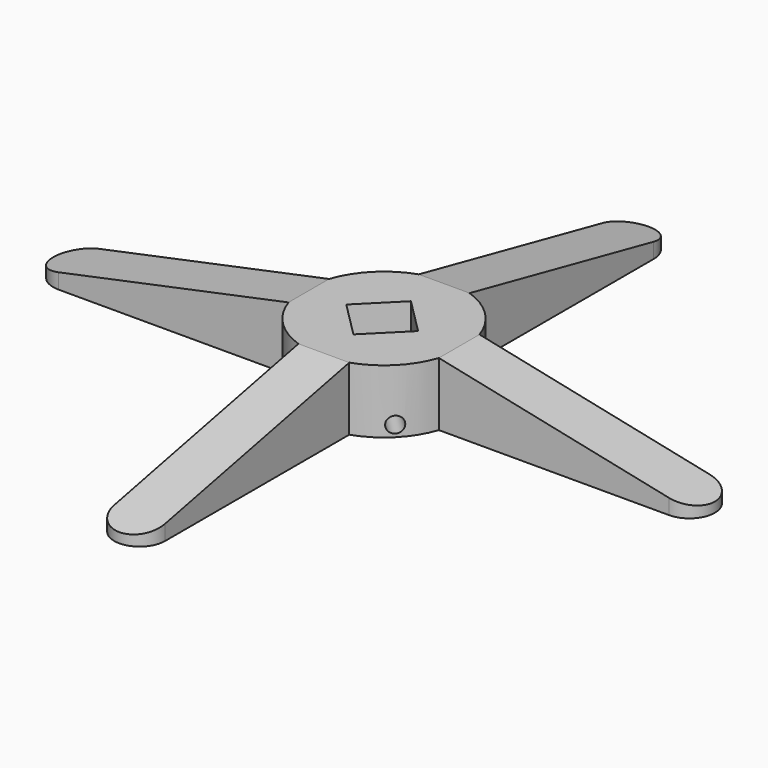
from build123d import *

# Parameters (mm, degrees)
F1_DEPTH       = 20
F3_DEPTH       = 16
F5_DEPTH       = 16
F7_DEPTH       = 16
F9_DEPTH       = 18
F10_R          = 2.5
F11_DEPTH      = 17.4049884739
F11_DEPTH_BACK = 16
F13_DEPTH      = 16


with BuildPart() as f1:
    # F0 (on Top) → F1 (new body)
    with BuildSketch(Plane.XY):
        with BuildLine():
            ThreePointArc((23.6854385647, -8), (24.6691706804, -4.0536425523), (25, 0))
            ThreePointArc((25, 0), (24.6691706804, 4.0536425523), (23.6854385647, 8))
            ThreePointArc((23.6854385647, 8), (17.6776695297, 17.6776695297), (8, 23.6854385647))
            ThreePointArc((8, 23.6854385647), (0, 25), (-8, 23.6854385647))
            ThreePointArc((-8, 23.6854385647), (-17.6776695297, 17.6776695297), (-23.6854385647, 8))
            ThreePointArc((-23.6854385647, 8), (-25, 0), (-23.6854385647, -8))
            ThreePointArc((-23.6854385647, -8), (-17.6776695297, -17.6776695297), (-8, -23.6854385647))
            ThreePointArc((-8, -23.6854385647), (0, -25), (8, -23.6854385647))
            ThreePointArc((8, -23.6854385647), (17.6776695297, -17.6776695297), (23.6854385647, -8))
        make_face()
        with BuildLine():
            ThreePointArc((23.6854385647, 8), (24.6691706804, 4.0536425523), (25, 0))
            ThreePointArc((25, 0), (24.6691706804, -4.0536425523), (23.6854385647, -8))
            Line((23.6854385647, -8), (96.1854385647, -8))
            ThreePointArc((96.1854385647, -8), (104.1854385647, 0), (96.1854385647, 8))
            Line((96.1854385647, 8), (23.6854385647, 8))
        make_face()
        with BuildLine():
            ThreePointArc((-8, 23.6854385647), (0, 25), (8, 23.6854385647))
            Line((8, 23.6854385647), (8, 96.1854385647))
            ThreePointArc((8, 96.1854385647), (0, 104.1854385647), (-8, 96.1854385647))
            Line((-8, 96.1854385647), (-8, 23.6854385647))
        make_face()
        with BuildLine():
            Line((8, -96.1854385647), (8, -23.6854385647))
            ThreePointArc((8, -23.6854385647), (0, -25), (-8, -23.6854385647))
            Line((-8, -23.6854385647), (-8, -96.1854385647))
            ThreePointArc((-8, -96.1854385647), (0, -104.1854385647), (8, -96.1854385647))
        make_face()
        with BuildLine():
            ThreePointArc((-23.6854385647, -8), (-25, 0), (-23.6854385647, 8))
            Line((-23.6854385647, 8), (-96.1854385647, 8))
            ThreePointArc((-96.1854385647, 8), (-104.1854385647, 0), (-96.1854385647, -8))
            Line((-96.1854385647, -8), (-23.6854385647, -8))
        make_face()
    extrude(amount=F1_DEPTH)

    # F2 (on face) → F3 (cut, through all)
    with BuildSketch(Plane.YZ.offset(8)):
        Polygon((104.6854385647, 20), (23.6854385647, 20), (104.6854385647, 3), align=None)
    extrude(amount=-F3_DEPTH, mode=Mode.SUBTRACT)

    # F4 (on face) → F5 (cut, through all)
    with BuildSketch(Plane(origin=(0, 8, 0), x_dir=(-1, 0, 0), z_dir=(0, 1, 0))):
        Polygon((104.6854385647, 20), (23.6854385647, 20), (104.6854385647, 3), align=None)
    extrude(amount=-F5_DEPTH, mode=Mode.SUBTRACT)

    # F6 (on face) → F7 (cut, through all)
    with BuildSketch(Plane(origin=(-8, 0, 0), x_dir=(0, -1, 0), z_dir=(-1, 0, 0))):
        Polygon((104.6854385647, 20), (23.6854385647, 20), (104.6854385647, 3), align=None)
    extrude(amount=-F7_DEPTH, mode=Mode.SUBTRACT)

    # F8 (on face) → F9 (cut)
    with BuildSketch(Plane.XY.offset(20)):
        Polygon((10.7409683065, 0), (-0.5727401924, 11.313708499), (-11.8864486914, 0), (-0.5727401924, -11.313708499), align=None)
    extrude(amount=-F9_DEPTH, mode=Mode.SUBTRACT)

    # F10 (on face) → F11 (cut, two sides)
    with BuildSketch(Plane(origin=(5.3704841533, -5.3704841533, 0), x_dir=(-0.7071067812, -0.7071067812, 0), z_dir=(-0.7071067812, 0.7071067812, 0))) as f11_sk:
        with Locations((0, 3.5)):
            Circle(F10_R)
    extrude(amount=-F11_DEPTH, mode=Mode.SUBTRACT)
    extrude(f11_sk.sketch, amount=F11_DEPTH_BACK, mode=Mode.SUBTRACT)

    # F12 (on face) → F13 (cut, through all)
    with BuildSketch(Plane.XZ.offset(8)):
        Polygon((104.6854385647, 20), (23.6854385647, 20), (104.6854385647, 3), align=None)
    extrude(amount=-F13_DEPTH, mode=Mode.SUBTRACT)


solid = f1.part
